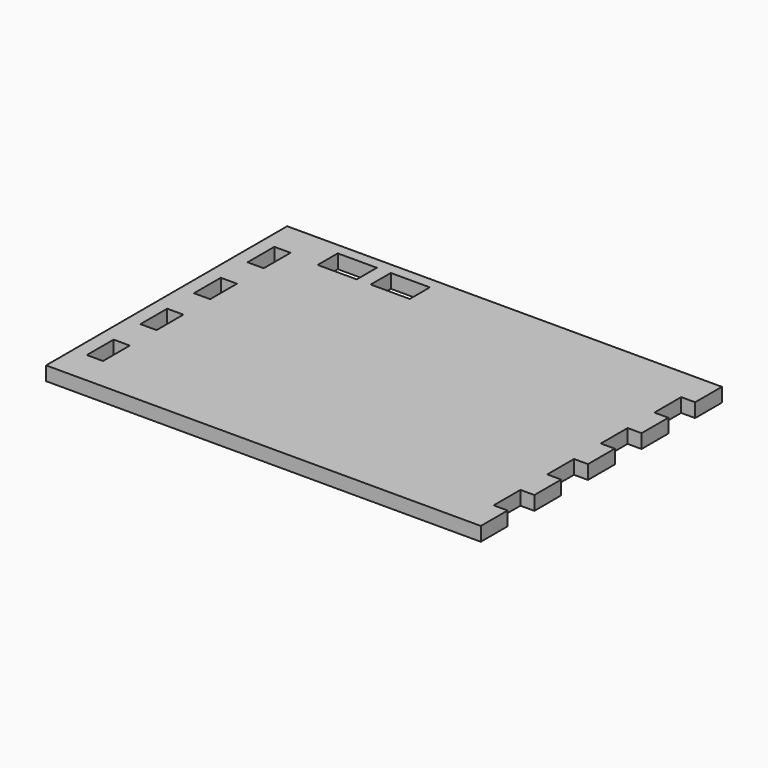
from build123d import *

# Parameters (mm, degrees)
F0_W     = 7.366
F0_H     = 15.24
F0_W_2   = 17.78
F0_H_2   = 11.43
F1_DEPTH = 6.35


with BuildPart() as f1:
    # F0 (on Top) → F1 (new body)
    with BuildSketch(Plane.XY):
        Polygon((108.494151, 76.2), (-69.305849, 76.2), (-76.671849, 76.2), (-83.021849, 76.2), (-83.021849, -60.96), (-76.671849, -60.96), (-69.305849, -60.96), (108.459485, -60.96), (114.844151, -60.96), (114.844151, -45.72), (108.494151, -45.72), (108.494151, -30.48), (114.844151, -30.48), (114.844151, -15.24), (108.494151, -15.24), (108.494151, 0), (114.844151, 0), (114.844151, 15.24), (108.494151, 15.24), (108.494151, 30.48), (114.844151, 30.48), (114.844151, 45.72), (108.494151, 45.72), (108.494151, 60.96), (114.844151, 60.96), (114.844151, 76.2), align=None)
        with Locations((-72.988849, -38.1)):
            Rectangle(F0_W, F0_H, mode=Mode.SUBTRACT)
        with Locations((-72.988849, -7.62)):
            Rectangle(F0_W, F0_H, mode=Mode.SUBTRACT)
        with Locations((-72.988849, 22.86)):
            Rectangle(F0_W, F0_H, mode=Mode.SUBTRACT)
        with Locations((-72.988849, 53.34)):
            Rectangle(F0_W, F0_H, mode=Mode.SUBTRACT)
        with Locations((-47.03585, 65.405)):
            Rectangle(F0_W_2, F0_H_2, mode=Mode.SUBTRACT)
        with Locations((-22.90585, 65.405)):
            Rectangle(F0_W_2, F0_H_2, mode=Mode.SUBTRACT)
    extrude(amount=F1_DEPTH)


solid = f1.part
